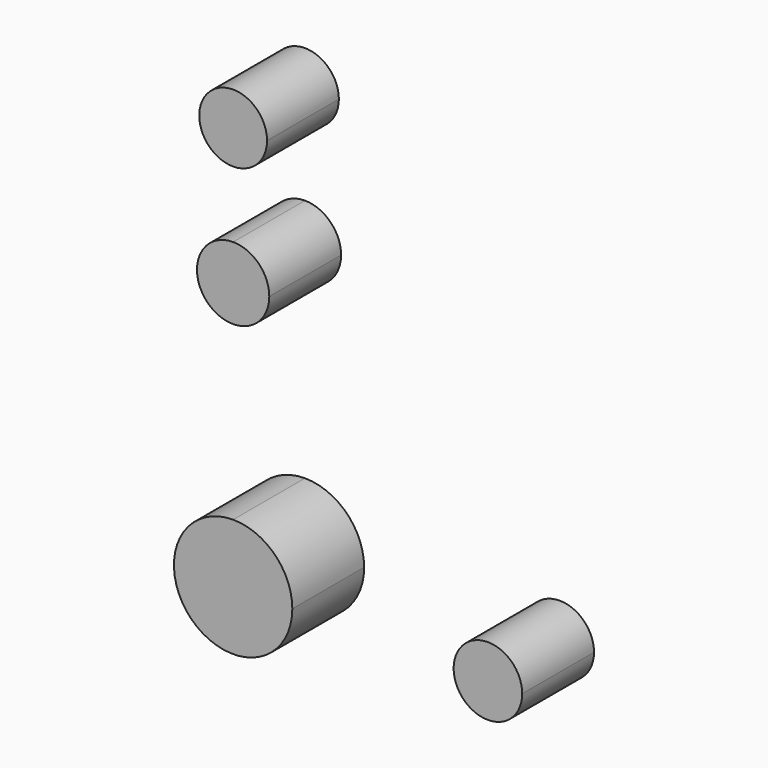
from build123d import *

# Parameters (mm, degrees)
F1_DEPTH = 25.4


with BuildPart() as f1:
    # F0 (on Front) → F1 (new body)
    with BuildSketch(Plane.XZ):
        with BuildLine():
            Line((16.745215, 0), (0, 0))
            Line((0, 0), (0, 16.745215))
            ThreePointArc((0, 16.745215), (-11.840655, -11.840655), (16.745215, 0))
        make_face()
        with BuildLine():
            Line((0, 16.745215), (0, 0))
            Line((0, 0), (16.745215, 0))
            ThreePointArc((16.745215, 0), (11.840655, 11.840655), (0, 16.745215))
        make_face()
        with BuildLine():
            ThreePointArc((9.591345, 114.3), (-6.782105, 121.082105), (0, 104.708655))
            ThreePointArc((0, 104.708655), (6.782105, 107.517895), (9.591345, 114.3))
        make_face()
        with BuildLine():
            ThreePointArc((0, 85.90078), (-10.224344, 75.676435), (0, 65.452091))
            Line((0, 65.452091), (0, 85.90078))
        make_face()
        with BuildLine():
            Line((0, 85.90078), (0, 65.452091))
            ThreePointArc((0, 65.452091), (7.229703, 68.446732), (10.224344, 75.676435))
            ThreePointArc((10.224344, 75.676435), (7.229703, 82.906138), (0, 85.90078))
        make_face()
        with BuildLine():
            ThreePointArc((81.780338, 0), (72.081553, 9.698785), (62.382769, 0))
            ThreePointArc((62.382769, 0), (72.081553, -9.698785), (81.780338, 0))
        make_face()
    extrude(amount=F1_DEPTH)


solid = f1.part
